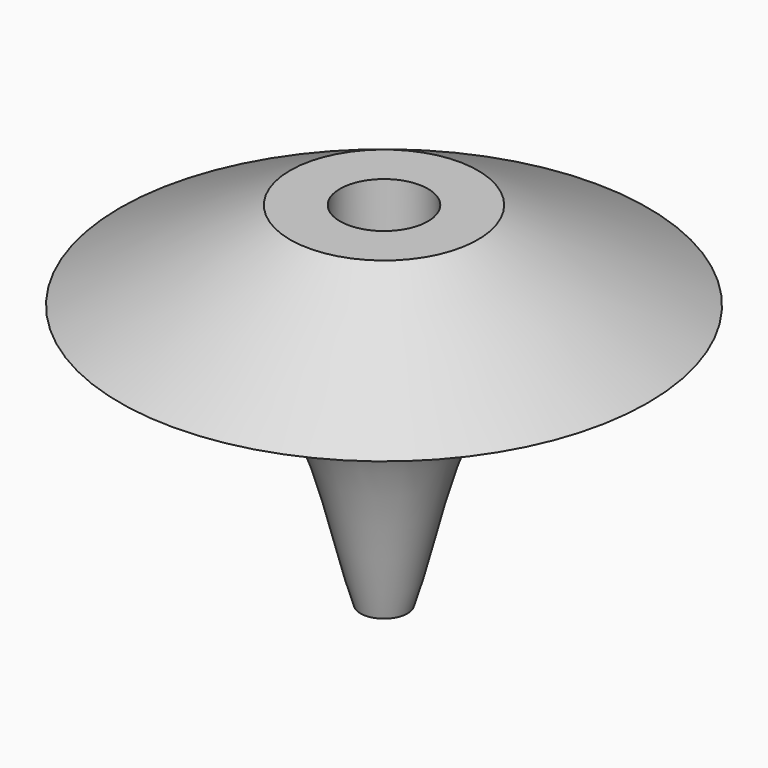
from build123d import *

# Parameters (mm, degrees)
F3_D     = 9.525
F3_DEPTH = 9.525
F3_TIP   = 2.8615986981
F5_D     = 3.175
F5_DEPTH = 21.844
F5_TIP   = 0.9538662327


with BuildPart() as f1:
    # F0 (on Front) → F1 (revolve)
    with BuildSketch(Plane.XZ):
        with BuildLine():
            Line((-2.54, -28.544438532), (0, -28.544438532))
            Line((0, -28.544438532), (0, 0))
            Line((0, 0), (-28.575, 0))
            add(Edge.make_bspline(
                [(-28.575, 0), (-22.1033814669, -1.3008907493), (-6.7932074564, -2.9181800603), (-4.8525862527, -21.5668183457), (-2.54, -28.544438532)],
                knots=[0, 0, 0, 0, 0.476190706, 1, 1, 1, 1], degree=3))
        make_face()
        Polygon((-28.575, 0), (0, 0), (0, 9.555561468), (-10.16, 9.555561468), align=None)
    revolve(axis=Axis((0, 0, -9.494438532), (0, 0, 1)))

    # F3
    with Locations(Plane.XY.offset(9.555561468)):
        with Locations((0, 0)):
            Hole(F3_D / 2, depth=F3_DEPTH)
            with Locations((0, 0, -(F3_DEPTH + F3_TIP / 2))):  # 118° drill point
                Cone(0, F3_D / 2, F3_TIP, mode=Mode.SUBTRACT)

    # F5
    with Locations(Plane(origin=(0, 0, -28.544438532), x_dir=(1, 0, 0), z_dir=(0, 0, -1))):
        with Locations((0, 0)):
            Hole(F5_D / 2, depth=F5_DEPTH)
            with Locations((0, 0, -(F5_DEPTH + F5_TIP / 2))):  # 118° drill point
                Cone(0, F5_D / 2, F5_TIP, mode=Mode.SUBTRACT)


solid = f1.part
